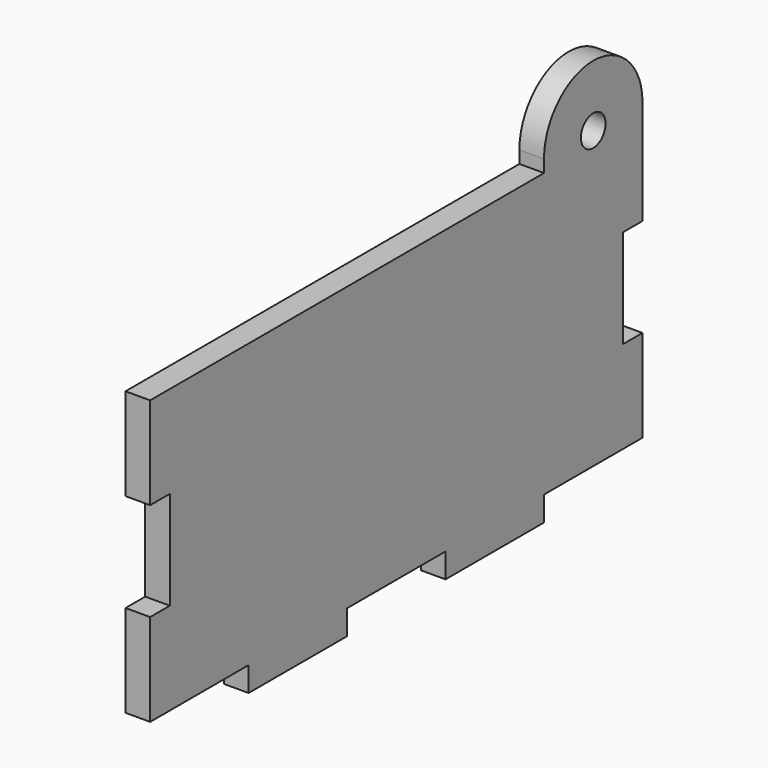
from build123d import *

# Parameters (mm, degrees)
F0_R     = 2.5
F1_DEPTH = 4
F2_W     = 20
F2_H     = 4
F3_DEPTH = 4


with BuildPart() as f1:
    # F0 (on Right) → F1 (new body)
    with BuildSketch(Plane.YZ):
        with BuildLine():
            Line((-21.435555, 45.962231), (-101.435555, 45.962231))
            Line((-101.435555, 45.962231), (-101.435555, 30.962231))
            Line((-101.435555, 30.962231), (-97.435555, 30.962231))
            Line((-97.435555, 30.962231), (-97.435555, 14.962231))
            Line((-97.435555, 14.962231), (-101.435555, 14.962231))
            Line((-101.435555, 14.962231), (-101.435555, -4.037769))
            Line((-101.435555, -4.037769), (-1.435555, -4.037769))
            Line((-1.435555, -4.037769), (-1.435555, 14.962231))
            Line((-1.435555, 14.962231), (-5.435555, 14.962231))
            Line((-5.435555, 14.962231), (-5.435555, 30.962231))
            Line((-5.435555, 30.962231), (-1.435555, 30.962231))
            Line((-1.435555, 30.962231), (-1.435555, 45.962231))
            Line((-1.435555, 45.962231), (-1.435555, 47.962231))
            ThreePointArc((-1.435555, 47.962231), (-11.435555, 57.962231), (-21.435555, 47.962231))
            Line((-21.435555, 47.962231), (-21.435555, 45.962231))
        make_face()
        with Locations((-11.435555, 47.962231)):
            Circle(F0_R, mode=Mode.SUBTRACT)
    extrude(amount=F1_DEPTH)

    # F2 (on face) → F3 (cut)
    with BuildSketch(Plane.YZ.offset(4)):
        with Locations((-91.435555, -2.037769)):
            Rectangle(F2_W, F2_H)
        with Locations((-51.435555, -2.037769)):
            Rectangle(F2_W, F2_H)
        with Locations((-11.435555, -2.037769)):
            Rectangle(F2_W, F2_H)
    extrude(amount=-F3_DEPTH, mode=Mode.SUBTRACT)


solid = f1.part
